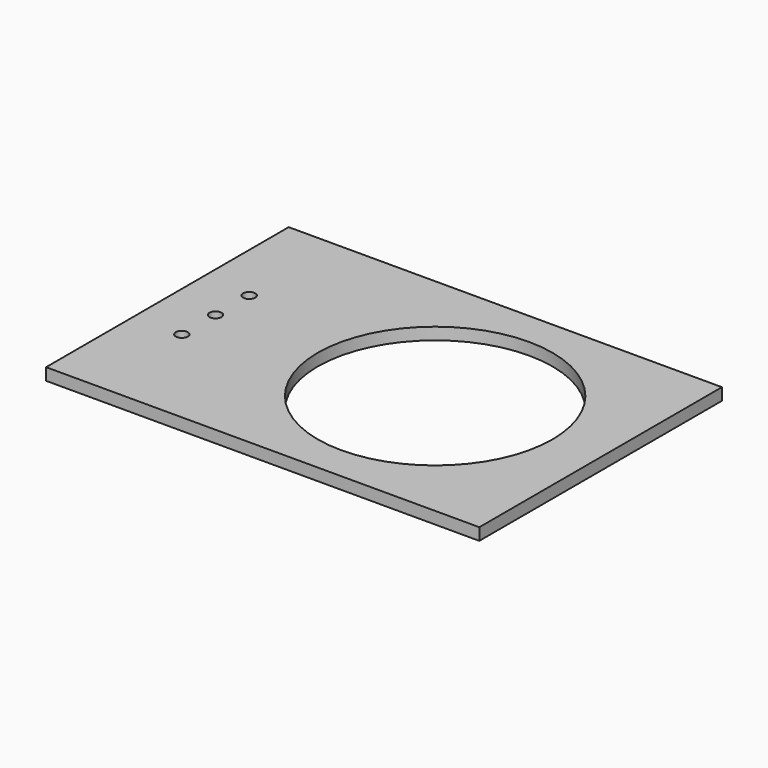
from build123d import *

# Parameters (mm, degrees)
F0_W     = 228.6
F0_H     = 160.02
F1_DEPTH = 6.35
F2_R     = 61.9125
F3_DEPTH = 25.4
F4_R     = 3.175
F5_DEPTH = 25.4


with BuildPart() as f1:
    # F0 (on Top) → F1 (new body)
    with BuildSketch(Plane.XY):
        with Locations((0.783786, -1.108692)):
            Rectangle(F0_W, F0_H)
    extrude(amount=F1_DEPTH)

    # F2 (on face) → F3 (cut)
    with BuildSketch(Plane.XY.offset(6.35)):
        with Locations((27.771286, -1.108692)):
            Circle(F2_R)
    extrude(amount=-F3_DEPTH, mode=Mode.SUBTRACT)

    # F4 (on face) → F5 (cut)
    with BuildSketch(Plane.XY.offset(6.35)):
        with Locations((-88.116214, -23.333692)):
            Circle(F4_R)
        with Locations((-88.116214, -1.108692)):
            Circle(F4_R)
        with Locations((-88.116214, 21.116308)):
            Circle(F4_R)
    extrude(amount=-F5_DEPTH, mode=Mode.SUBTRACT)


solid = f1.part
